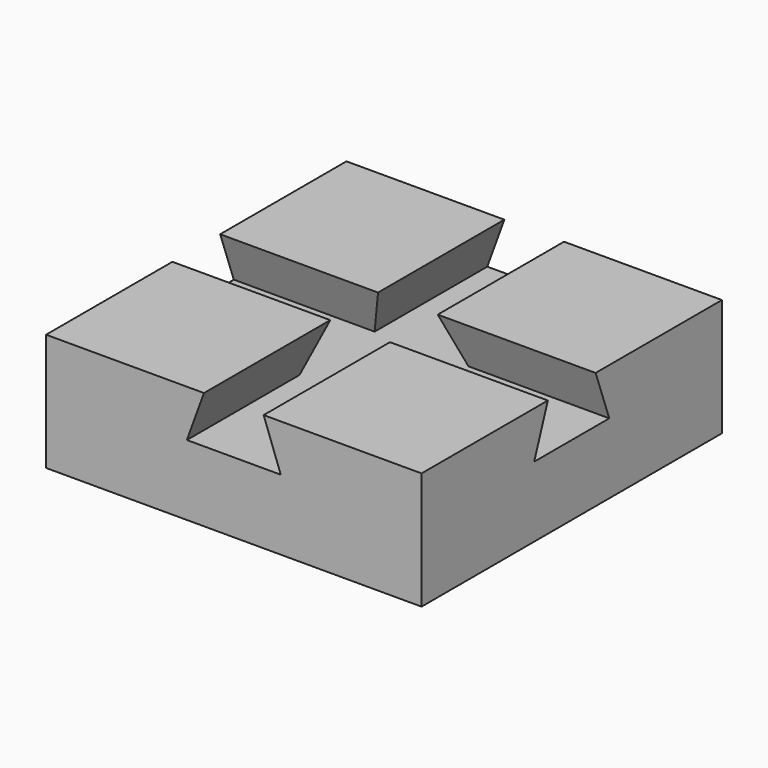
from build123d import *

# Parameters (mm, degrees)
F1_DEPTH = 80
F3_DEPTH = 80


with BuildPart() as f1:
    # F0 (on Front) → F1 (new body)
    with BuildSketch(Plane.XZ):
        Polygon((37.330411, -5.82836), (3.690411, -5.82836), (7.330411, -15.82836), (-12.669589, -15.82836), (-9.029589, -5.82836), (-42.669589, -5.82836), (-42.669589, -30.82836), (37.330411, -30.82836), align=None)
    extrude(amount=-F1_DEPTH)

    # F2 (on face) → F3 (cut)
    with BuildSketch(Plane.YZ.offset(37.330411)):
        Polygon((30, -15.82836), (50, -15.82836), (46.36, -5.82836), (40, -5.82836), (33.64, -5.82836), align=None)
    extrude(amount=-F3_DEPTH, mode=Mode.SUBTRACT)


solid = f1.part
